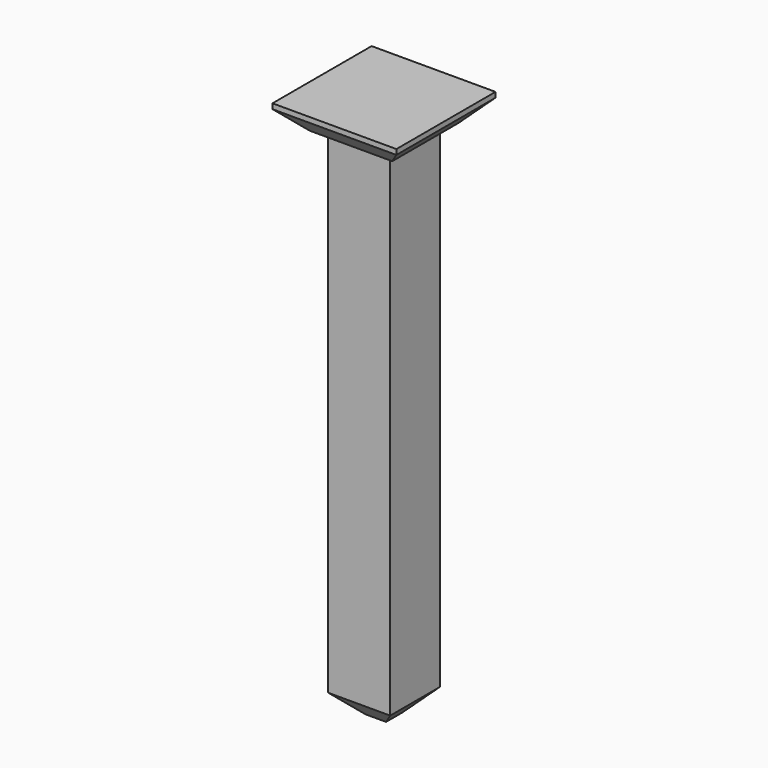
from build123d import *

# Parameters (mm, degrees)
SKETCH_W        = 0.6
SKETCH_H        = 0.6
PAD_DEPTH       = 5
SKETCH001_W     = 1.2
SKETCH001_H     = 1.2
PAD001_DEPTH    = 0.25
CHAMFER_SIZE    = 0.2
CHAMFER001_SIZE = 0.2


with BuildPart() as part:
    # Sketch → Pad (new body)
    with BuildSketch(Plane.XY):
        Rectangle(SKETCH_W, SKETCH_H)
    extrude(amount=PAD_DEPTH)

    # Sketch001 (on Face6 of Pad) → Pad001 (join)
    with BuildSketch(Plane.XY.offset(5)):
        Rectangle(SKETCH001_W, SKETCH001_H)
    extrude(amount=PAD001_DEPTH)

    # Chamfer
    chamfer_edges = [part.edges().sort_by_distance(p)[0] for p in [
        (0, -0.3, 0),
        (0.3, 0, 0),
        (0, 0.3, 0),
        (-0.3, 0, 0),
    ]]
    chamfer(chamfer_edges, length=CHAMFER_SIZE)

    # Chamfer001
    chamfer001_edges = [part.edges().sort_by_distance(p)[0] for p in [
        (-0.6, 0, 5),
        (0, 0.6, 5),
        (0.6, 0, 5),
        (0, -0.6, 5),
    ]]
    chamfer(chamfer001_edges, length=CHAMFER001_SIZE)


with BuildPart() as part_1:
    # Body placement: moved
    add(part.part.moved(Location((0, -7.62, 3.3))))


solid = part_1.part
